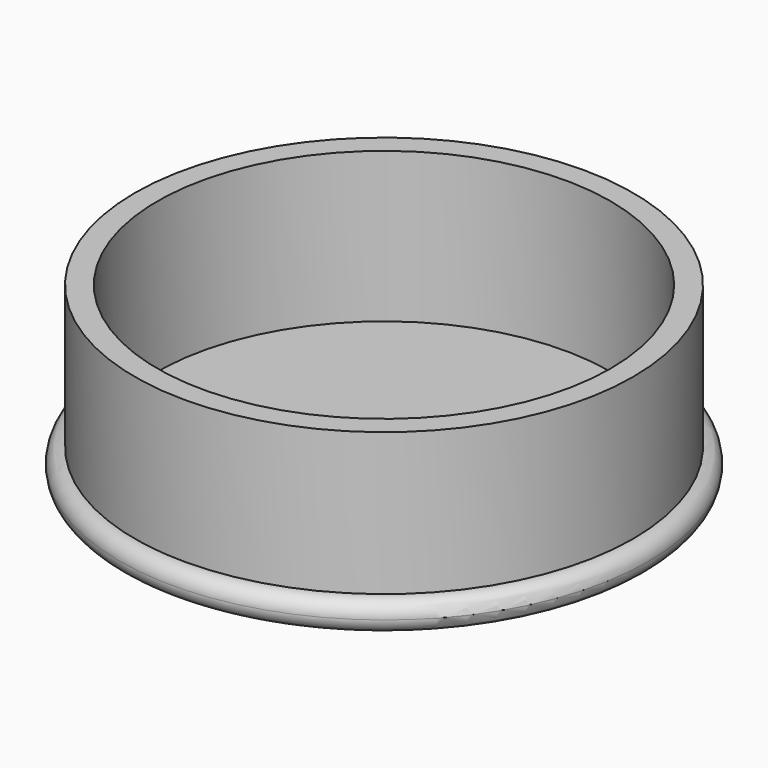
from build123d import *

# Parameters (mm, degrees)
TORUS_R           = 1
CYLINDER_R        = 15.1
CYLINDER_DEPTH    = 12.5
CYLINDER001_R     = 16.6
CYLINDER001_DEPTH = 11.5


with BuildPart() as lip:
    # Torus → Torus (revolve)
    with BuildSketch(Plane(origin=(0, 0, -0.5), x_dir=(1, 0, 0), z_dir=(0, -1, 0))):
        with Locations((16.6, 0)):
            Circle(TORUS_R)
    revolve(axis=Axis((0, 0, -0.5), (0, 0, 1)))


with BuildPart() as internal:
    # Cylinder → Cylinder (new body)
    with BuildSketch(Plane.XY):
        Circle(CYLINDER_R)
    extrude(amount=CYLINDER_DEPTH)


with BuildPart() as fusion:
    # Cylinder001 → Cylinder001 (new body)
    with BuildSketch(Plane.XY.offset(-1.5)):
        Circle(CYLINDER001_R)
    extrude(amount=CYLINDER001_DEPTH)

    # Cut: cut Internal
    add(internal.part, mode=Mode.SUBTRACT)

    # Fusion: union Lip
    add(lip.part)


solid = fusion.part
